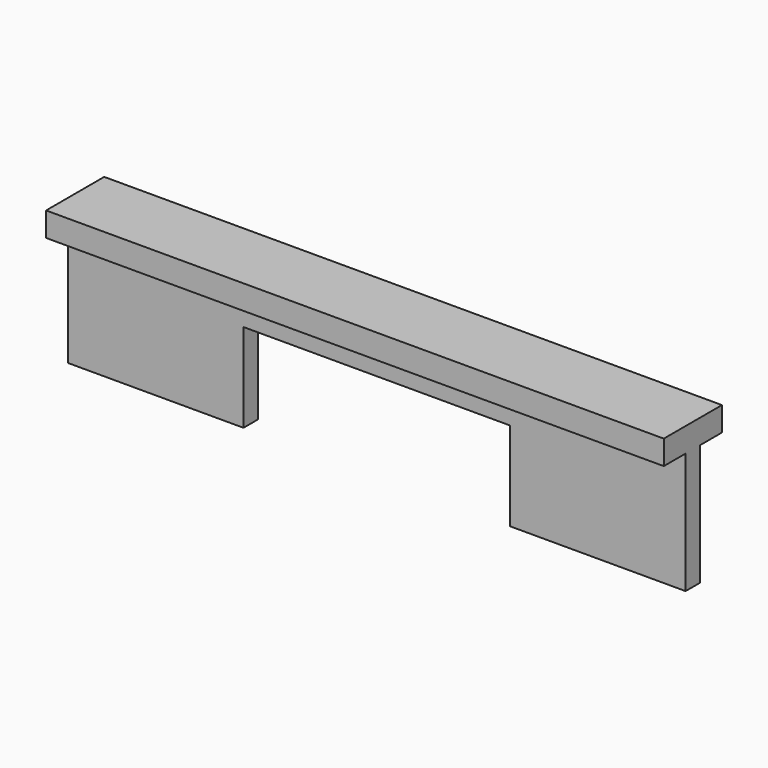
from build123d import *

# Parameters (mm, degrees)
SKETCH_W     = 51
SKETCH_H     = 10
PAD_DEPTH    = 1.5
SKETCH001_W  = 22
SKETCH001_H  = 7.32541
POCKET_DEPTH = 5
SKETCH002_W  = 51
SKETCH002_H  = 6
PAD001_DEPTH = 2


with BuildPart() as part:
    # Sketch → Pad (new body)
    with BuildSketch(Plane.XZ):
        with Locations((25.5, 5)):
            Rectangle(SKETCH_W, SKETCH_H)
    extrude(amount=PAD_DEPTH)

    # Sketch001 (on Face6 of Pad) → Pocket (cut)
    with BuildSketch(Plane.XZ.offset(1.5)):
        with Locations((25.5, 3.662705)):
            Rectangle(SKETCH001_W, SKETCH001_H)
    extrude(amount=-POCKET_DEPTH, mode=Mode.SUBTRACT)

    # Sketch002 (on Face6 of Pocket) → Pad001 (join)
    with BuildSketch(Plane(origin=(0, 0, 10), x_dir=(-1, 0, 0), z_dir=(0, 0, 1))):
        with Locations((-25.5, 0.75)):
            Rectangle(SKETCH002_W, SKETCH002_H)
    extrude(amount=PAD001_DEPTH)


solid = part.part
